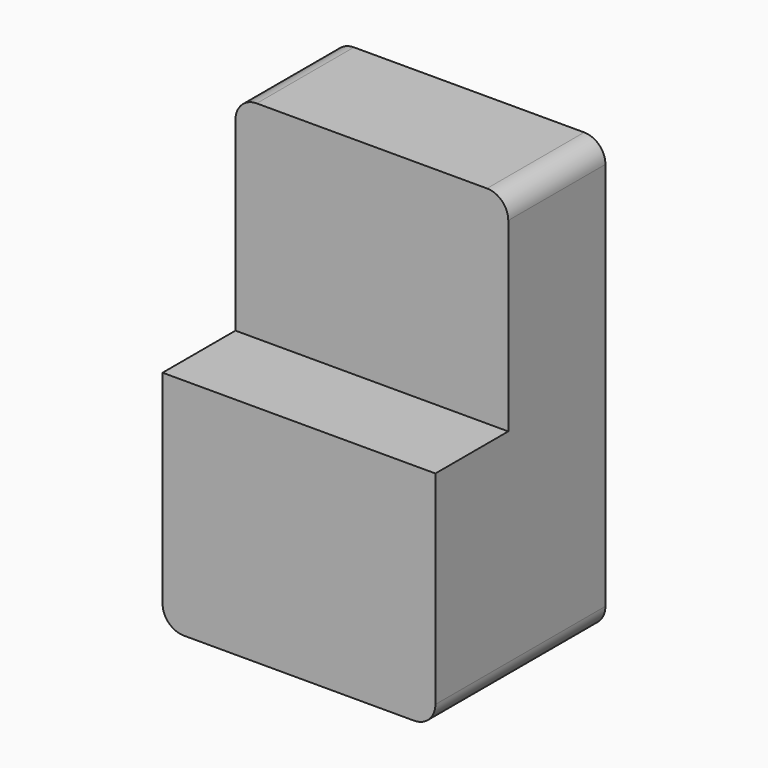
from build123d import *

# Parameters (mm, degrees)
F1_DEPTH = 25.4
F3_DEPTH = 19.05


with BuildPart() as f1:
    # F0 (on Front) → F1 (new body)
    with BuildSketch(Plane.XZ):
        with BuildLine():
            Line((22.462801, 43.289483), (-25.703526, 43.289483))
            ThreePointArc((-25.703526, 43.289483), (-28.848755, 41.986686), (-30.151552, 38.841457))
            Line((-30.151552, 38.841457), (-30.151552, -42.523745))
            ThreePointArc((-30.151552, -42.523745), (-28.849641, -45.666835), (-25.706552, -46.968745))
            Line((-25.706552, -46.968745), (22.462801, -46.968745))
            ThreePointArc((22.462801, -46.968745), (25.605891, -45.666835), (26.907801, -42.523745))
            Line((26.907801, -42.523745), (26.907801, 38.844483))
            ThreePointArc((26.907801, 38.844483), (25.605891, 41.987572), (22.462801, 43.289483))
        make_face()
    extrude(amount=F1_DEPTH)

    # F2 (on face) → F3 (join)
    with BuildSketch(Plane.XZ.offset(25.4)):
        with BuildLine():
            Line((26.907801, 0), (-30.151552, 0))
            Line((-30.151552, 0), (-30.151552, -42.523745))
            ThreePointArc((-30.151552, -42.523745), (-28.849641, -45.666835), (-25.706552, -46.968745))
            Line((-25.706552, -46.968745), (22.462801, -46.968745))
            ThreePointArc((22.462801, -46.968745), (25.605891, -45.666835), (26.907801, -42.523745))
            Line((26.907801, -42.523745), (26.907801, 0))
        make_face()
    extrude(amount=F3_DEPTH)


solid = f1.part
